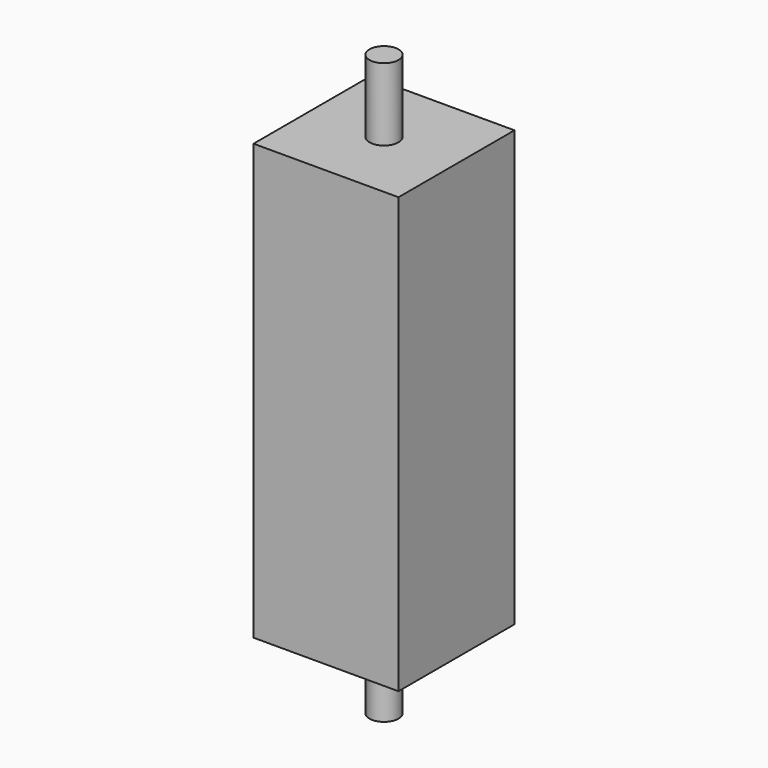
from build123d import *

# Parameters (mm, degrees)
F0_W     = 50
F0_H     = 50
F1_DEPTH = 75
F2_R     = 5
F3_DEPTH = 25
F4_R     = 5
F5_DEPTH = 25


with BuildPart() as f1:
    # F0 (on Top) → F1 (new body, symmetric)
    with BuildSketch(Plane.XY):
        Rectangle(F0_W, F0_H)
    extrude(amount=F1_DEPTH, both=True)

    # F2 (on face) → F3 (join)
    with BuildSketch(Plane(origin=(0, 0, -75), x_dir=(1, 0, 0), z_dir=(0, 0, -1))):
        Circle(F2_R)
    extrude(amount=F3_DEPTH)

    # F4 (on face) → F5 (join)
    with BuildSketch(Plane.XY.offset(75)):
        Circle(F4_R)
    extrude(amount=F5_DEPTH)


solid = f1.part
